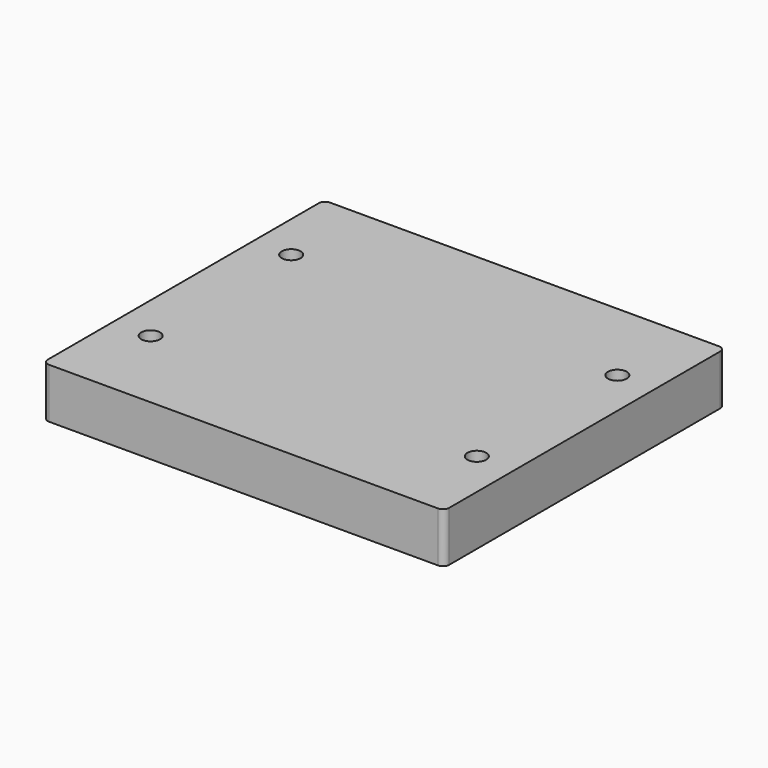
from build123d import *

# Parameters (mm, degrees)
F0_W     = 320
F0_H     = 280
F0_R     = 7.5
F1_DEPTH = 40
F2_R     = 5


with BuildPart() as f1:
    # F0 (on Top) → F1 (new body)
    with BuildSketch(Plane.XY):
        Rectangle(F0_W, F0_H)
        with Locations((-130, -70)):
            Circle(F0_R, mode=Mode.SUBTRACT)
        with Locations((130, -70)):
            Circle(F0_R, mode=Mode.SUBTRACT)
        with Locations((-130, 70)):
            Circle(F0_R, mode=Mode.SUBTRACT)
        with Locations((130, 70)):
            Circle(F0_R, mode=Mode.SUBTRACT)
    extrude(amount=F1_DEPTH)

    # F2
    f2_edges = [f1.edges().sort_by_distance(p)[0] for p in [
        (-160, -140, 20),
        (160, -140, 20),
        (160, 140, 20),
        (-160, 140, 20),
    ]]
    fillet(f2_edges, radius=F2_R)


solid = f1.part
